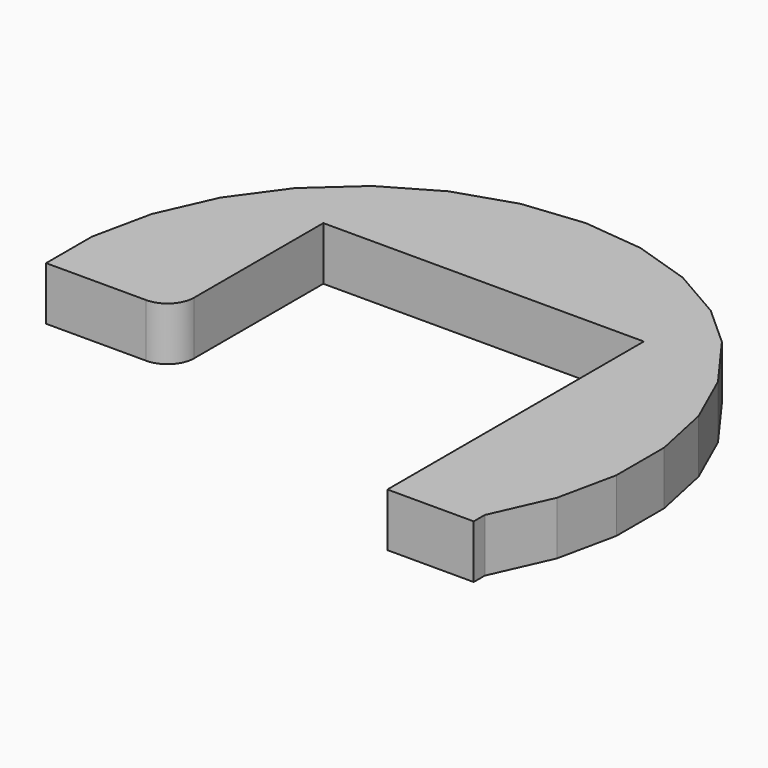
from build123d import *

# Parameters (mm, degrees)
F1_DEPTH = 100


with BuildPart() as f1:
    # F0 (on Top) → F1 (new body)
    with BuildSketch(Plane.XY):
        with BuildLine():
            Line((-300, 300), (-250, 300))
            Line((-250, 300), (250, 300))
            Line((250, 300), (300, 300))
            Line((300, 300), (300, 250))
            Line((300, 250), (300, -300))
            Line((300, -300), (461.55284, -300))
            Line((461.55284, -300), (461.55284, -274.148953))
            Line((461.55284, -274.148953), (509.881234, -165.601602))
            Line((509.881234, -165.601602), (533.194239, -55.922539))
            Line((533.194239, -55.922539), (533.158025, 56.207051))
            Line((533.158025, 56.207051), (509.808885, 165.885914))
            Line((509.808885, 165.885914), (464.157372, 268.30564))
            Line((464.157372, 268.30564), (390.063715, 370.175778))
            Line((390.063715, 370.175778), (315.191048, 437.507966))
            Line((315.191048, 437.507966), (218.040579, 493.50566))
            Line((218.040579, 493.50566), (111.367142, 528.071001))
            Line((111.367142, 528.071001), (-0.534983, 539.73091))
            Line((-0.534983, 539.73091), (-112.787019, 527.820755))
            Line((-112.787019, 527.820755), (-220.106861, 492.822908))
            Line((-220.106861, 492.822908), (-317.800291, 436.268358))
            Line((-317.800291, 436.268358), (-401.594268, 360.630946))
            Line((-401.594268, 360.630946), (-467.848829, 269.184572))
            Line((-467.848829, 269.184572), (-513.780329, 166.020735))
            Line((-513.780329, 166.020735), (-537.307359, 55.319745))
            Line((-537.307359, 55.319745), (-537.307359, -52.090053))
            Line((-537.307359, -52.090053), (-350, -52.090053))
            ThreePointArc((-350, -52.090053), (-314.644661, -37.445392), (-300, -2.090053))
            Line((-300, -2.090053), (-300, 250))
            Line((-300, 250), (-300, 300))
        make_face()
    extrude(amount=F1_DEPTH)


solid = f1.part
